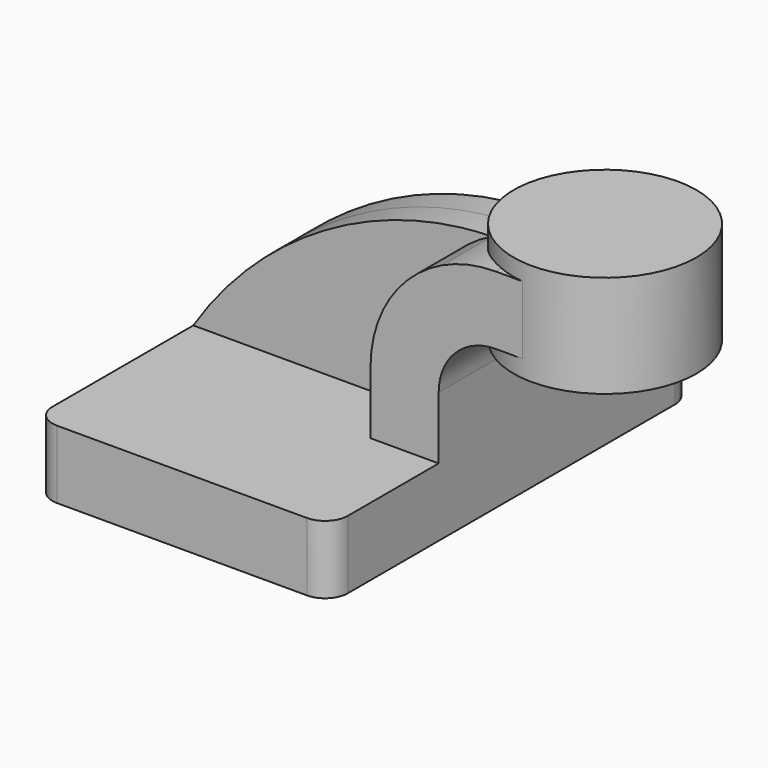
from build123d import *

# Parameters (mm, degrees)
F1_DEPTH = 63.5
F2_DEPTH = 25.4
F3_DEPTH = 7.9375
F5_R     = 6.35


with BuildPart() as f1:
    # F0 (on Front) → F1 (new body, symmetric)
    with BuildSketch(Plane.XZ):
        Polygon((-41.275, -9.525), (41.275, -9.525), (41.275, 9.525), (22.225, 9.525), (-41.275, 9.525), align=None)
    extrude(amount=F1_DEPTH, both=True)

    # F0 (on Front) → F2 (join, symmetric)
    with BuildSketch(Plane.XZ):
        with BuildLine():
            Line((22.225, 9.525), (41.275, 9.525))
            Line((41.275, 9.525), (41.275, 27.0002))
            ThreePointArc((41.275, 27.0002), (42.449861, 32.993658), (45.800548, 38.1))
            Line((45.800548, 38.1), (42.194617, 38.1))
            Line((42.194617, 38.1), (42.194617, 58.561128))
            ThreePointArc((42.194617, 58.561128), (27.636678, 45.674231), (22.225, 27.0002))
            Line((22.225, 27.0002), (22.225, 9.525))
        make_face()
        with BuildLine():
            ThreePointArc((57.15, 61.9252), (49.485464, 61.073804), (42.194617, 58.561128))
            Line((42.194617, 58.561128), (42.194617, 38.1))
            Line((42.194617, 38.1), (45.800548, 38.1))
            ThreePointArc((45.800548, 38.1), (50.993447, 41.632783), (57.15, 42.8752))
            Line((57.15, 42.8752), (67.442127, 42.8752))
            Line((67.442127, 42.8752), (67.442127, 61.9252))
            Line((67.442127, 61.9252), (57.15, 61.9252))
        make_face()
    extrude(amount=F2_DEPTH, both=True)

    # F0 (on Front) → F3 (join, symmetric)
    with BuildSketch(Plane.XZ):
        with BuildLine():
            add(Edge.make_bspline(
                [(-41.275, 9.525), (-23.330939, 37.566107), (8.143247, 57.774324), (42.194617, 58.561128)],
                knots=[0, 0, 0, 0, 96.807638, 96.807638, 96.807638, 96.807638], degree=3))
            Line((-41.275, 9.525), (22.225, 9.525))
            Line((22.225, 9.525), (22.225, 27.0002))
            ThreePointArc((22.225, 27.0002), (27.636678, 45.674231), (42.194617, 58.561128))
        make_face()
    extrude(amount=F3_DEPTH, both=True)

    # F0 (on Front) → F4 (revolve)
    with BuildSketch(Plane.XZ):
        Polygon((67.442127, 42.8752), (67.442127, 38.1), (92.994617, 38.1), (92.994617, 66.675), (67.442127, 66.675), (67.442127, 61.9252), align=None)
    revolve(axis=Axis((67.442127, 0, 52.3875), (0, 0, -1)))

    # F5
    f5_edges = [f1.edges().sort_by_distance(p)[0] for p in [
        (41.275, -63.5, 0),
        (-41.275, -63.5, 0),
        (41.275, 63.5, 0),
        (-41.275, 63.5, 0),
    ]]
    fillet(f5_edges, radius=F5_R)


solid = f1.part
